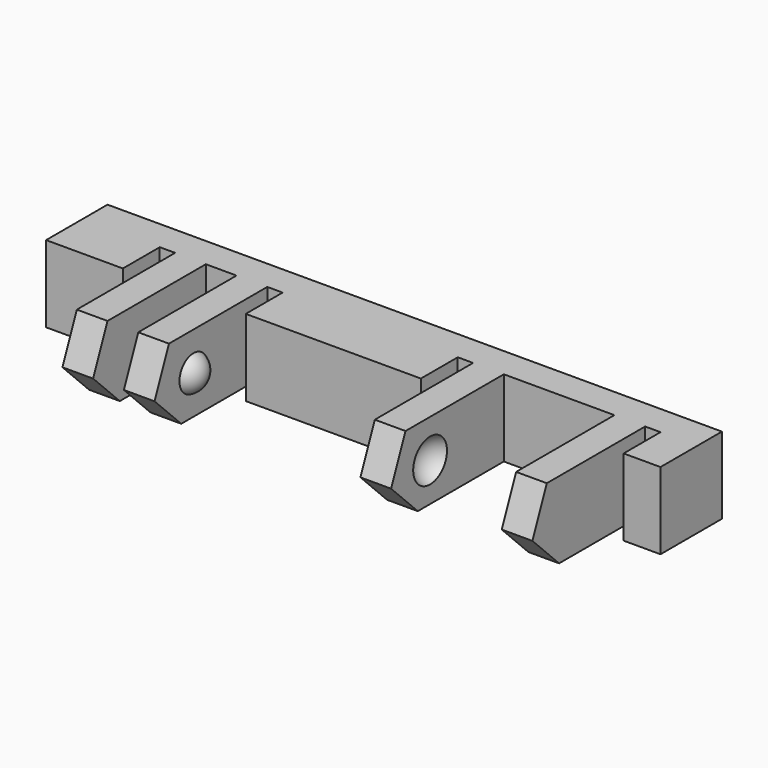
from build123d import *

# Parameters (mm, degrees)
BOX118_W               = 12
BOX118_H               = 44
BOX118_DEPTH           = 10
BOX114_W               = 4
BOX114_H               = 1
BOX114_DEPTH           = 7
BOX116_W               = 4
BOX116_H               = 1
BOX116_DEPTH           = 7
BOX113_W               = 4
BOX113_H               = 2
BOX113_DEPTH           = 7
BOX115_W               = 4
BOX115_H               = 1
BOX115_DEPTH           = 7
BOX112_W               = 4
BOX112_H               = 1
BOX112_DEPTH           = 7
BOX117_W               = 4
BOX117_H               = 7.2
BOX117_DEPTH           = 7
BOX111_W               = 13
BOX111_H               = 40
BOX111_DEPTH           = 10
BOX111_PLACEMENT_ANGLE = 45
BOX110_W               = 10
BOX110_H               = 2
BOX110_DEPTH           = 7
BOX109_W               = 10
BOX109_H               = 2
BOX109_DEPTH           = 7
BOX108_W               = 10
BOX108_H               = 2
BOX108_DEPTH           = 7
BOX106_W               = 10
BOX106_H               = 2
BOX106_DEPTH           = 7
BOX107_W               = 5
BOX107_H               = 40
BOX107_DEPTH           = 7
CHAMFER010_SIZE        = 4
CUT031_PLACEMENT_ANGLE = 180
CUT032_PLACEMENT_ANGLE = 90


with BuildPart() as cube102:
    # Box118 → Box118 (new body)
    with BuildSketch(Plane(origin=(-11, -2, -12), x_dir=(1, 0, 0), z_dir=(0, 0, 1))):
        with Locations((6, 22)):
            Rectangle(BOX118_W, BOX118_H)
    extrude(amount=BOX118_DEPTH)


with BuildPart() as cube098:
    # Box114 → Box114 (new body)
    with BuildSketch(Plane(origin=(-1, 12, 0), x_dir=(1, 0, 0), z_dir=(0, 0, 1))):
        with Locations((2, 0.5)):
            Rectangle(BOX114_W, BOX114_H)
    extrude(amount=BOX114_DEPTH)


with BuildPart() as cube100:
    # Box116 → Box116 (new body)
    with BuildSketch(Plane(origin=(-1, 36.6, 0), x_dir=(1, 0, 0), z_dir=(0, 0, 1))):
        with Locations((2, 0.5)):
            Rectangle(BOX116_W, BOX116_H)
    extrude(amount=BOX116_DEPTH)


with BuildPart() as cube097:
    # Box113 → Box113 (new body)
    with BuildSketch(Plane(origin=(-1, 8, 0), x_dir=(1, 0, 0), z_dir=(0, 0, 1))):
        with Locations((2, 1)):
            Rectangle(BOX113_W, BOX113_H)
    extrude(amount=BOX113_DEPTH)


with BuildPart() as cube099:
    # Box115 → Box115 (new body)
    with BuildSketch(Plane(origin=(-1, 24.4, 0), x_dir=(1, 0, 0), z_dir=(0, 0, 1))):
        with Locations((2, 0.5)):
            Rectangle(BOX115_W, BOX115_H)
    extrude(amount=BOX115_DEPTH)


with BuildPart() as cube096:
    # Box112 → Box112 (new body)
    with BuildSketch(Plane(origin=(-1, 5, 0), x_dir=(1, 0, 0), z_dir=(0, 0, 1))):
        with Locations((2, 0.5)):
            Rectangle(BOX112_W, BOX112_H)
    extrude(amount=BOX112_DEPTH)


with BuildPart() as fusion037:
    # Box117 → Box117 (new body)
    with BuildSketch(Plane(origin=(-1, 27.4, 0), x_dir=(1, 0, 0), z_dir=(0, 0, 1))):
        with Locations((2, 3.6)):
            Rectangle(BOX117_W, BOX117_H)
    extrude(amount=BOX117_DEPTH)

    # Fusion037: union Cube098, Cube100, Cube097, Cube099, Cube096
    add(cube098.part)
    add(cube100.part)
    add(cube097.part)
    add(cube099.part)
    add(cube096.part)


with BuildPart() as sphere041:
    # Sphere041 → Sphere041 (revolve)
    with BuildSketch(Plane(origin=(-3, 28, 2.5), x_dir=(1, 0, 0), z_dir=(0, -1, 0))):
        with BuildLine():
            ThreePointArc((0, -1.5), (1.5, 0), (0, 1.5))
            Line((0, 1.5), (0, -1.5))
        make_face()
    revolve(axis=Axis((-3, 28, 2.5), (0, 0, 1)))


with BuildPart() as fusion036:
    # Sphere042 → Sphere042 (revolve)
    with BuildSketch(Plane(origin=(-3, 34, 2.5), x_dir=(1, 0, 0), z_dir=(0, -1, 0))):
        with BuildLine():
            ThreePointArc((0, -1.5), (1.5, 0), (0, 1.5))
            Line((0, 1.5), (0, -1.5))
        make_face()
    revolve(axis=Axis((-3, 34, 2.5), (0, 0, 1)))

    # Fusion036: union Sphere041
    add(sphere041.part)


with BuildPart() as sphere040:
    # Sphere040 → Sphere040 (revolve)
    with BuildSketch(Plane(origin=(-3, 11.5, 2.5), x_dir=(1, 0, 0), z_dir=(0, -1, 0))):
        with BuildLine():
            ThreePointArc((0, -1.25), (1.25, 0), (0, 1.25))
            Line((0, 1.25), (0, -1.25))
        make_face()
    revolve(axis=Axis((-3, 11.5, 2.5), (0, 0, 1)))


with BuildPart() as cube095:
    # Box111 → Box111 (new body)
    with BuildSketch(Plane.XY):
        with Locations((6.5, 20)):
            Rectangle(BOX111_W, BOX111_H)
    extrude(amount=BOX111_DEPTH)


with BuildPart() as cube095_1:
    # Box111 placement: moved
    add(cube095.part.moved(Location((-10.19, 0, -1.19))).rotate(Axis((-10.19, 0, -1.19), (0, -1, 0)), BOX111_PLACEMENT_ANGLE))


with BuildPart() as cube094:
    # Box110 → Box110 (new body)
    with BuildSketch(Plane(origin=(-10, 6, 0), x_dir=(1, 0, 0), z_dir=(0, 0, 1))):
        with Locations((5, 1)):
            Rectangle(BOX110_W, BOX110_H)
    extrude(amount=BOX110_DEPTH)


with BuildPart() as cube093:
    # Box109 → Box109 (new body)
    with BuildSketch(Plane(origin=(-10, 10, 0), x_dir=(1, 0, 0), z_dir=(0, 0, 1))):
        with Locations((5, 1)):
            Rectangle(BOX109_W, BOX109_H)
    extrude(amount=BOX109_DEPTH)


with BuildPart() as cube092:
    # Box108 → Box108 (new body)
    with BuildSketch(Plane(origin=(-10, 25.4, 0), x_dir=(1, 0, 0), z_dir=(0, 0, 1))):
        with Locations((5, 1)):
            Rectangle(BOX108_W, BOX108_H)
    extrude(amount=BOX108_DEPTH)


with BuildPart() as cube090:
    # Box106 → Box106 (new body)
    with BuildSketch(Plane(origin=(-10, 34.6, 0), x_dir=(1, 0, 0), z_dir=(0, 0, 1))):
        with Locations((5, 1)):
            Rectangle(BOX106_W, BOX106_H)
    extrude(amount=BOX106_DEPTH)


with BuildPart() as cut029:
    # Box107 → Box107 (new body)
    with BuildSketch(Plane.XY):
        with Locations((2.5, 20)):
            Rectangle(BOX107_W, BOX107_H)
    extrude(amount=BOX107_DEPTH)

    # Fusion034: union Cube094, Cube093, Cube092, Cube090
    add(cube094.part)
    add(cube093.part)
    add(cube092.part)
    add(cube090.part)

    # Cut029: cut Cube095
    add(cube095_1.part, mode=Mode.SUBTRACT)


with BuildPart() as cut032:
    # Sphere039 → Sphere039 (revolve)
    with BuildSketch(Plane(origin=(-3, 6.5, 2.5), x_dir=(1, 0, 0), z_dir=(0, -1, 0))):
        with BuildLine():
            ThreePointArc((0, -1.25), (1.25, 0), (0, 1.25))
            Line((0, 1.25), (0, -1.25))
        make_face()
    revolve(axis=Axis((-3, 6.5, 2.5), (0, 0, 1)))

    # Fusion035: union Sphere040, Cut029
    add(sphere040.part)
    add(cut029.part)

    # Cut030: cut Fusion036
    add(fusion036.part, mode=Mode.SUBTRACT)

    # Chamfer010
    chamfer010_edges = [cut032.edges().sort_by_distance(p)[0] for p in [
        (-9, 7, 0),
        (-9, 11, 0),
        (-9, 35.6, 0),
        (-9, 26.4, 0),
    ]]
    chamfer(chamfer010_edges, length=CHAMFER010_SIZE)

    # Cut031: cut Fusion037
    add(fusion037.part, mode=Mode.SUBTRACT)


with BuildPart() as cut032_1:
    # Cut031 placement: moved
    add(cut032.part.moved(Location((-5, 40, 3))).rotate(Axis((-5, 40, 3), (1, 0, 0)), CUT031_PLACEMENT_ANGLE))

    # Cut032: cut Cube102
    add(cube102.part, mode=Mode.SUBTRACT)


with BuildPart() as cut032_2:
    # Cut032 placement: moved
    add(cut032_1.part.moved(Location((40, 0, 0))).rotate(Axis((40, 0, 0), (0, 0, 1)), CUT032_PLACEMENT_ANGLE))


solid = cut032_2.part
